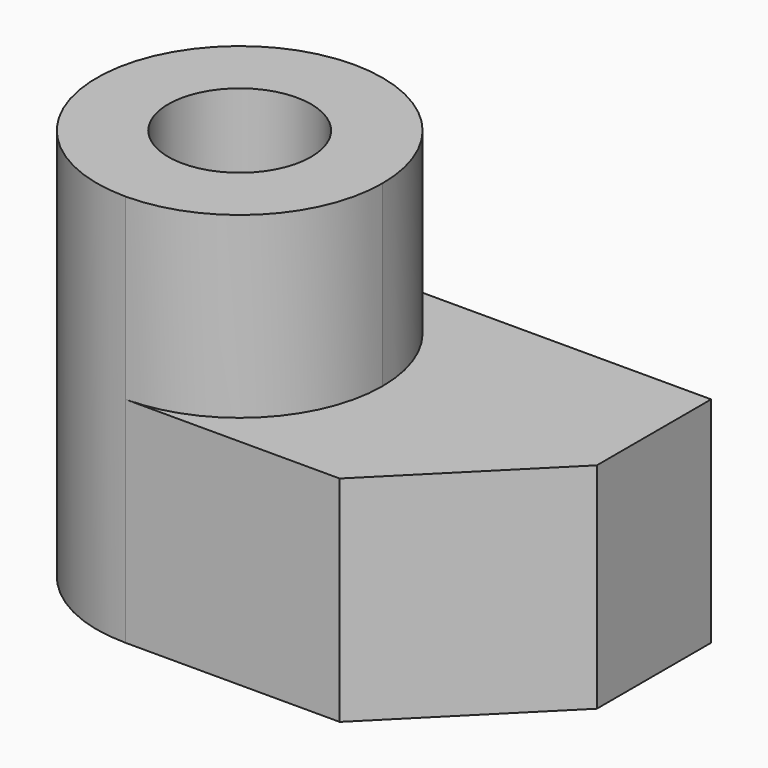
from build123d import *

# Parameters (mm, degrees)
F0_R     = 6.35
F1_DEPTH = 25.4
F2_DEPTH = 9.525
F4_DEPTH = 12.7


with BuildPart() as f1:
    # F0 (on Top) → F1 (new body)
    with BuildSketch(Plane.XY):
        with BuildLine():
            ThreePointArc((0, -12.7), (8.980256, -8.980256), (12.7, 0))
            ThreePointArc((12.7, 0), (8.980256, 8.980256), (0, 12.7))
            ThreePointArc((0, 12.7), (-12.7, 0), (0, -12.7))
        make_face()
        Circle(F0_R, mode=Mode.SUBTRACT)
    extrude(amount=F1_DEPTH)

    # F0 (on Top) → F2 (join, symmetric)
    with BuildSketch(Plane.XY):
        with BuildLine():
            ThreePointArc((0, -12.7), (8.980256, -8.980256), (12.7, 0))
            ThreePointArc((12.7, 0), (8.980256, 8.980256), (0, 12.7))
            ThreePointArc((0, 12.7), (-12.7, 0), (0, -12.7))
        make_face()
        Circle(F0_R, mode=Mode.SUBTRACT)
        with BuildLine():
            ThreePointArc((0, 12.7), (8.980256, 8.980256), (12.7, 0))
            ThreePointArc((12.7, 0), (8.980256, -8.980256), (0, -12.7))
            Line((0, -12.7), (31.75, -12.7))
            Line((31.75, -12.7), (31.75, 12.7))
            Line((31.75, 12.7), (0, 12.7))
        make_face()
    extrude(amount=F2_DEPTH, both=True)

    # F3 (on Top) → F4 (cut, symmetric)
    with BuildSketch(Plane.XY):
        Polygon((31.75, 0), (19.05, -12.7), (31.75, -12.7), align=None)
    extrude(amount=F4_DEPTH, both=True, mode=Mode.SUBTRACT)


solid = f1.part
